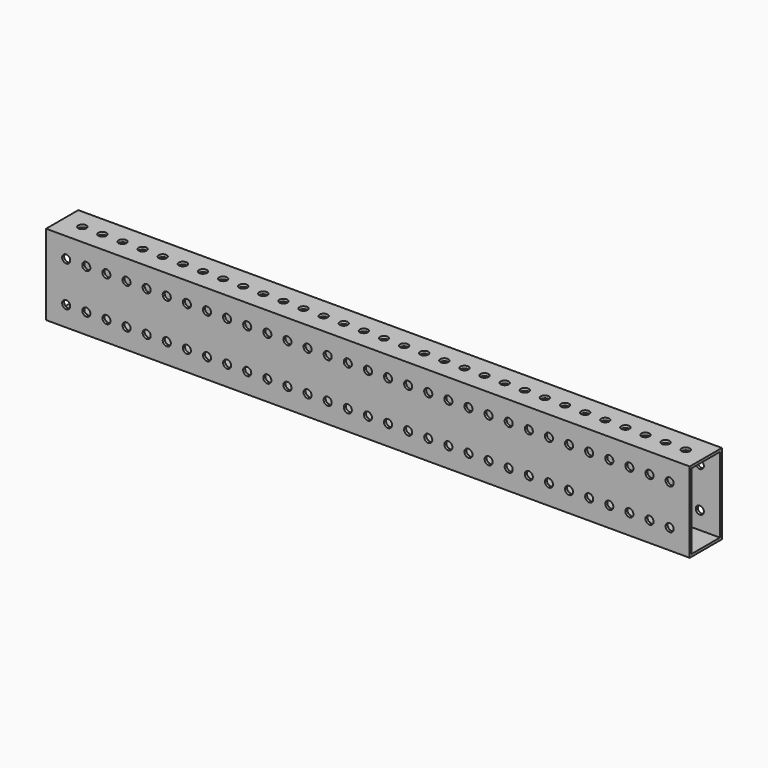
from build123d import *

# Parameters (mm, degrees)
F0_W     = 25.4
F0_H     = 50.8
F0_W_2   = 22.225
F0_H_2   = 47.625
F1_DEPTH = 406.4
F2_R     = 2.5527
F3_DEPTH = 50.801
F4_R     = 2.5527
F5_DEPTH = 76.2


with BuildPart() as f1:
    # F0 (on Right) → F1 (new body)
    with BuildSketch(Plane.YZ):
        Rectangle(F0_W, F0_H)
        Rectangle(F0_W_2, F0_H_2, mode=Mode.SUBTRACT)
    extrude(amount=F1_DEPTH)

    # F2 (on face) → F3 (cut, through all)
    with BuildSketch(Plane.XY.offset(25.4)):
        with Locations((12.7, 0)):
            Circle(F2_R)
        with Locations((25.4, 0)):
            Circle(F2_R)
        with Locations((38.1, 0)):
            Circle(F2_R)
        with Locations((50.8, 0)):
            Circle(F2_R)
        with Locations((63.5, 0)):
            Circle(F2_R)
        with Locations((76.2, 0)):
            Circle(F2_R)
        with Locations((88.9, 0)):
            Circle(F2_R)
        with Locations((101.6, 0)):
            Circle(F2_R)
        with Locations((114.3, 0)):
            Circle(F2_R)
        with Locations((127, 0)):
            Circle(F2_R)
        with Locations((139.7, 0)):
            Circle(F2_R)
        with Locations((152.4, 0)):
            Circle(F2_R)
        with Locations((165.1, 0)):
            Circle(F2_R)
        with Locations((177.8, 0)):
            Circle(F2_R)
        with Locations((190.5, 0)):
            Circle(F2_R)
        with Locations((203.2, 0)):
            Circle(F2_R)
        with Locations((215.9, 0)):
            Circle(F2_R)
        with Locations((228.6, 0)):
            Circle(F2_R)
        with Locations((241.3, 0)):
            Circle(F2_R)
        with Locations((254, 0)):
            Circle(F2_R)
        with Locations((266.7, 0)):
            Circle(F2_R)
        with Locations((279.4, 0)):
            Circle(F2_R)
        with Locations((292.1, 0)):
            Circle(F2_R)
        with Locations((304.8, 0)):
            Circle(F2_R)
        with Locations((317.5, 0)):
            Circle(F2_R)
        with Locations((330.2, 0)):
            Circle(F2_R)
        with Locations((342.9, 0)):
            Circle(F2_R)
        with Locations((355.6, 0)):
            Circle(F2_R)
        with Locations((368.3, 0)):
            Circle(F2_R)
        with Locations((381, 0)):
            Circle(F2_R)
        with Locations((393.7, 0)):
            Circle(F2_R)
    extrude(amount=-F3_DEPTH, mode=Mode.SUBTRACT)

    # F4 (on face) → F5 (cut)
    with BuildSketch(Plane.XZ.offset(12.7)):
        with Locations((12.7, 12.7)):
            Circle(F4_R)
        with Locations((12.7, -12.7)):
            Circle(F4_R)
        with Locations((25.4, 12.7)):
            Circle(F4_R)
        with Locations((25.4, -12.7)):
            Circle(F4_R)
        with Locations((38.1, 12.7)):
            Circle(F4_R)
        with Locations((38.1, -12.7)):
            Circle(F4_R)
        with Locations((50.8, 12.7)):
            Circle(F4_R)
        with Locations((50.8, -12.7)):
            Circle(F4_R)
        with Locations((63.5, 12.7)):
            Circle(F4_R)
        with Locations((63.5, -12.7)):
            Circle(F4_R)
        with Locations((76.2, 12.7)):
            Circle(F4_R)
        with Locations((76.2, -12.7)):
            Circle(F4_R)
        with Locations((88.9, 12.7)):
            Circle(F4_R)
        with Locations((88.9, -12.7)):
            Circle(F4_R)
        with Locations((101.6, 12.7)):
            Circle(F4_R)
        with Locations((101.6, -12.7)):
            Circle(F4_R)
        with Locations((114.3, 12.7)):
            Circle(F4_R)
        with Locations((114.3, -12.7)):
            Circle(F4_R)
        with Locations((127, 12.7)):
            Circle(F4_R)
        with Locations((127, -12.7)):
            Circle(F4_R)
        with Locations((139.7, 12.7)):
            Circle(F4_R)
        with Locations((139.7, -12.7)):
            Circle(F4_R)
        with Locations((152.4, 12.7)):
            Circle(F4_R)
        with Locations((152.4, -12.7)):
            Circle(F4_R)
        with Locations((165.1, 12.7)):
            Circle(F4_R)
        with Locations((165.1, -12.7)):
            Circle(F4_R)
        with Locations((177.8, 12.7)):
            Circle(F4_R)
        with Locations((177.8, -12.7)):
            Circle(F4_R)
        with Locations((190.5, 12.7)):
            Circle(F4_R)
        with Locations((190.5, -12.7)):
            Circle(F4_R)
        with Locations((203.2, 12.7)):
            Circle(F4_R)
        with Locations((203.2, -12.7)):
            Circle(F4_R)
        with Locations((215.9, 12.7)):
            Circle(F4_R)
        with Locations((215.9, -12.7)):
            Circle(F4_R)
        with Locations((228.6, 12.7)):
            Circle(F4_R)
        with Locations((228.6, -12.7)):
            Circle(F4_R)
        with Locations((241.3, 12.7)):
            Circle(F4_R)
        with Locations((241.3, -12.7)):
            Circle(F4_R)
        with Locations((254, 12.7)):
            Circle(F4_R)
        with Locations((254, -12.7)):
            Circle(F4_R)
        with Locations((266.7, 12.7)):
            Circle(F4_R)
        with Locations((266.7, -12.7)):
            Circle(F4_R)
        with Locations((279.4, 12.7)):
            Circle(F4_R)
        with Locations((279.4, -12.7)):
            Circle(F4_R)
        with Locations((292.1, 12.7)):
            Circle(F4_R)
        with Locations((292.1, -12.7)):
            Circle(F4_R)
        with Locations((304.8, 12.7)):
            Circle(F4_R)
        with Locations((304.8, -12.7)):
            Circle(F4_R)
        with Locations((317.5, 12.7)):
            Circle(F4_R)
        with Locations((317.5, -12.7)):
            Circle(F4_R)
        with Locations((330.2, 12.7)):
            Circle(F4_R)
        with Locations((330.2, -12.7)):
            Circle(F4_R)
        with Locations((342.9, 12.7)):
            Circle(F4_R)
        with Locations((342.9, -12.7)):
            Circle(F4_R)
        with Locations((355.6, 12.7)):
            Circle(F4_R)
        with Locations((355.6, -12.7)):
            Circle(F4_R)
        with Locations((368.3, 12.7)):
            Circle(F4_R)
        with Locations((368.3, -12.7)):
            Circle(F4_R)
        with Locations((381, 12.7)):
            Circle(F4_R)
        with Locations((381, -12.7)):
            Circle(F4_R)
        with Locations((393.7, 12.7)):
            Circle(F4_R)
        with Locations((393.7, -12.7)):
            Circle(F4_R)
    extrude(amount=-F5_DEPTH, mode=Mode.SUBTRACT)


solid = f1.part
